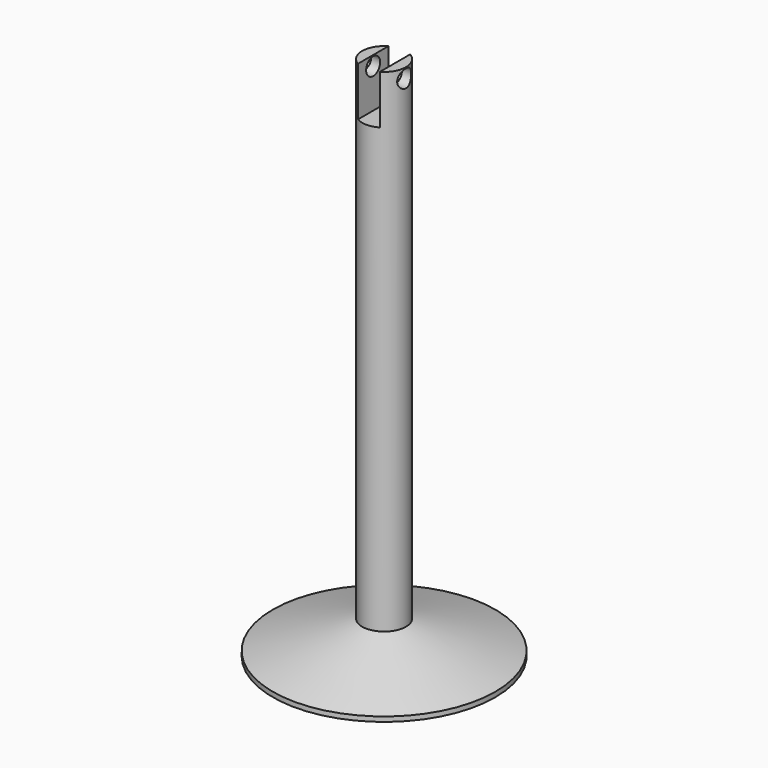
from build123d import *

# Parameters (mm, degrees)
F0_R     = 16.129
F1_DEPTH = 76.2
F4_W     = 3.175
F4_H     = 10.16
F5_DEPTH = 12.7
F6_R     = 1.27
F7_DEPTH = 12.7
F8_DEPTH = 2.54


with BuildPart() as f1:
    # F0 (on Top) → F1 (new body)
    with BuildSketch(Plane.XY):
        Circle(F0_R)
    extrude(amount=F1_DEPTH)

    # F2 (on Front) → F3 (revolve, cut)
    with BuildSketch(Plane.XZ):
        Polygon((-18.344346, 0), (-3.175, 4.789623), (-3.175, 89.805141), (-18.344346, 89.805141), align=None)
    revolve(axis=Axis((0, 0, 76.2), (0, 0, 1)), mode=Mode.SUBTRACT)

    # F4 (on Front) → F5 (cut, symmetric)
    with BuildSketch(Plane.XZ):
        with Locations((0, 76.715104)):
            Rectangle(F4_W, F4_H)
    extrude(amount=F5_DEPTH, both=True, mode=Mode.SUBTRACT)

    # F6 (on Right) → F7 (cut, symmetric)
    with BuildSketch(Plane.YZ):
        with Locations((0, 74.767284)):
            Circle(F6_R)
    extrude(amount=F7_DEPTH, both=True, mode=Mode.SUBTRACT)

    # F5_face (on face) → F8 (cut)
    with BuildSketch(Plane.XY.offset(71.635104)):
        with BuildLine():
            Line((-1.5875, 2.749631), (-1.5875, -2.749631))
            ThreePointArc((-1.5875, -2.749631), (0, -3.175), (1.5875, -2.749631))
            Line((1.5875, -2.749631), (1.5875, 2.749631))
            ThreePointArc((1.5875, 2.749631), (0, 3.175), (-1.5875, 2.749631))
        make_face()
    extrude(amount=-F8_DEPTH, mode=Mode.SUBTRACT)


solid = f1.part
